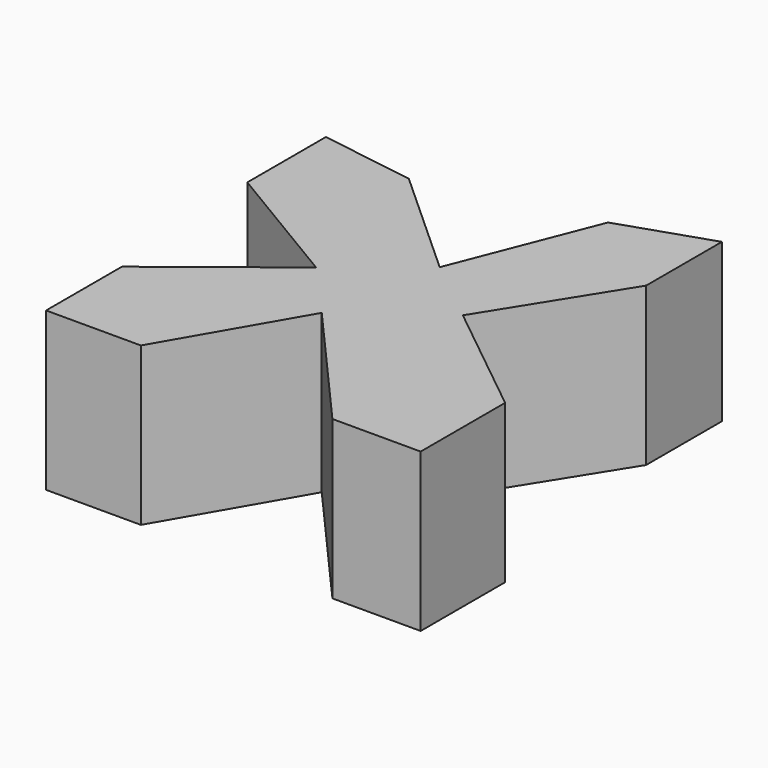
from build123d import *

# Parameters (mm, degrees)
F1_DEPTH = 25


with BuildPart() as f1:
    # F0 (on Top) → F1 (new body)
    with BuildSketch(Plane.XY):
        Polygon((-59.742335, -20.706531), (-59.742335, -35.706531), (-44.742335, -35.706531), (-32.742335, -14.921922), (-13.964169, -36.282145), (0, -36.282145), (0, -19.570792), (-18.713158, -4.543559), (-5.993182, 15.8084), (-5.993182, 30.8084), (-20.223432, 26.064984), (-28.990339, 3.723512), (-46.774025, 19.83998), (-61.739924, 22.142425), (-61.739924, 6.600914), (-40.867616, -5.882734), align=None)
    extrude(amount=F1_DEPTH)


solid = f1.part
